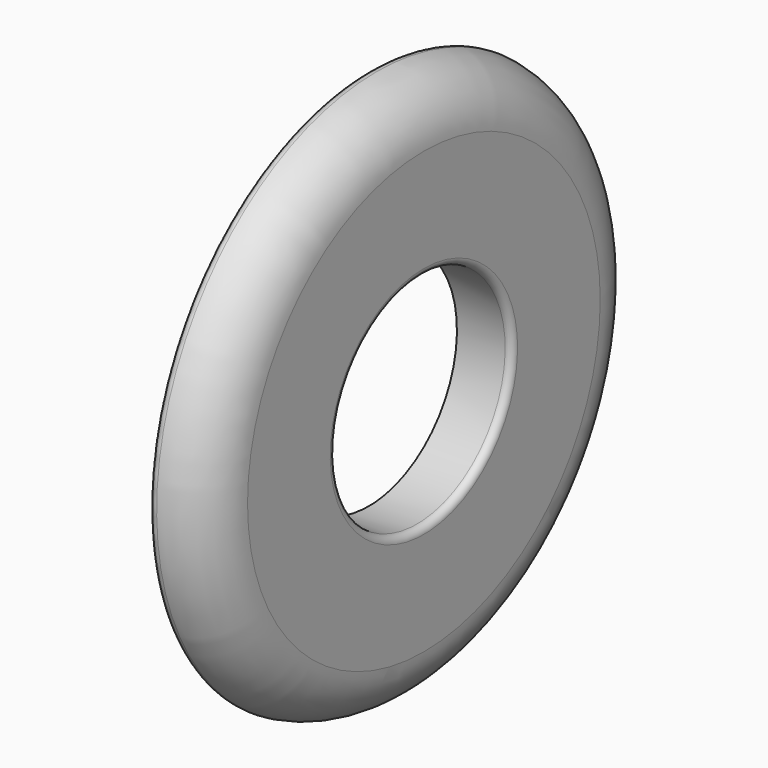
from build123d import *

# Parameters (mm, degrees)
F2_R = 5
F3_R = 5


with BuildPart() as f1:
    # F0 (on Front) → F1 (revolve)
    with BuildSketch(Plane.XZ):
        with BuildLine():
            Line((-20, 40), (-20, -40))
            Line((-20, -40), (20, -40))
            Line((20, -40), (20, 40))
            ThreePointArc((20, 40), (8.2842712475, 68.2842712475), (-20, 80))
            Line((-20, 80), (-20, 40))
        make_face()
    revolve(axis=Axis((15.3097613019, 0, -120), (1, 0, 0)))

    # F2
    f2_edges = [f1.edges().sort_by_distance(p)[0] for p in [
        (-20, 0, -320),
    ]]
    fillet(f2_edges, radius=F2_R)

    # F3
    f3_edges = [f1.edges().sort_by_distance(p)[0] for p in [
        (20, 0, -200),
    ]]
    fillet(f3_edges, radius=F3_R)


solid = f1.part
